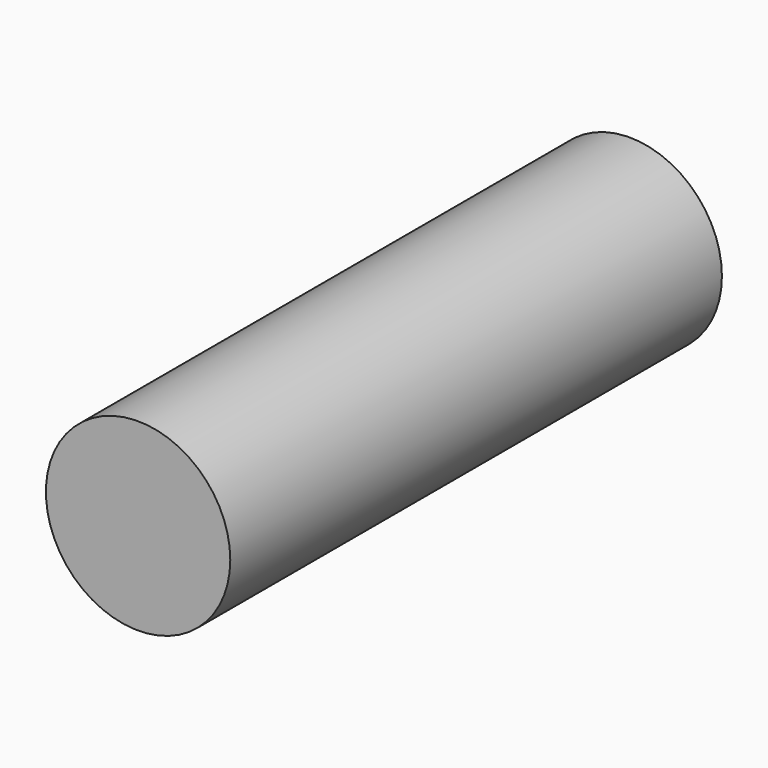
from build123d import *

# Parameters (mm, degrees)
SKETCH_R  = 1.5
PAD_DEPTH = 5


with BuildPart() as part:
    # Sketch → Pad (new body, symmetric)
    with BuildSketch(Plane.XZ):
        Circle(SKETCH_R)
    extrude(amount=PAD_DEPTH, both=True)


solid = part.part
